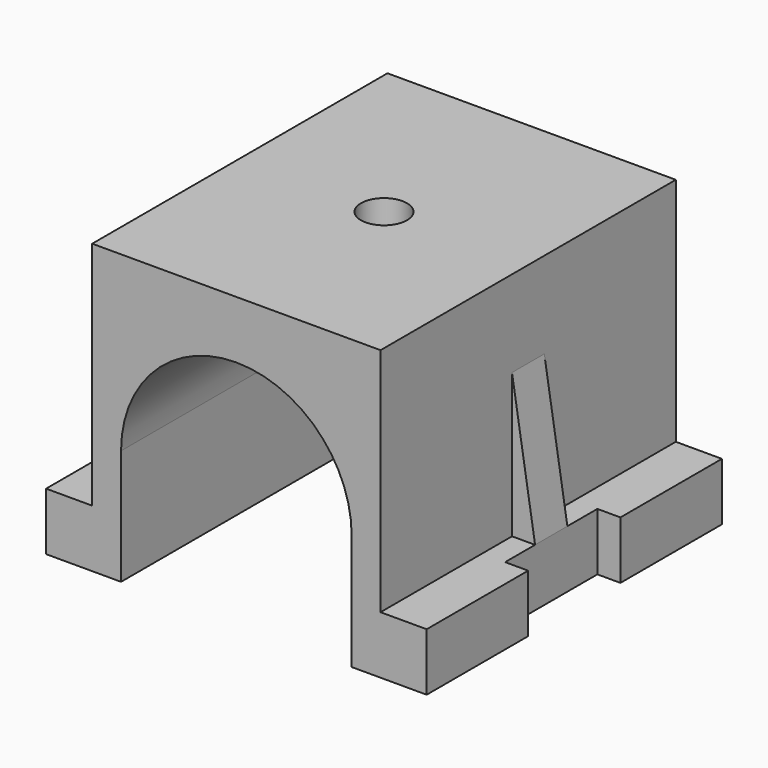
from build123d import *

# Parameters (mm, degrees)
PAD_DEPTH       = 128
SKETCH001_W     = 8
SKETCH001_H     = 40
POCKET_DEPTH    = 20.001
SKETCH002_W     = 50
SKETCH002_H     = 14
PAD001_DEPTH    = 8
SKETCH003_R     = 8
POCKET001_DEPTH = 100.001
POCKET002_DEPTH = 71.001


with BuildPart() as part:
    # Sketch → Pad (new body)
    with BuildSketch(Plane.XZ):
        with BuildLine():
            Line((-50, 100), (-50, 20))
            Line((-50, 20), (-66, 20))
            Line((-66, 20), (-66, 0))
            Line((-66, 0), (-40, 0))
            Line((-40, 0), (-40, 40))
            ThreePointArc((40, 40), (0, 80), (-40, 40))
            Line((40, 0), (40, 40))
            Line((66, 0), (40, 0))
            Line((66, 20), (66, 0))
            Line((50, 20), (66, 20))
            Line((50, 20), (50, 100))
            Line((50, 100), (-50, 100))
        make_face()
    extrude(amount=PAD_DEPTH)

    # Sketch001 (on Face12 of Pad) → Pocket (cut, through all)
    with BuildSketch(Plane(origin=(0, 0, 20), x_dir=(-1, 0, 0), z_dir=(0, 0, 1))):
        with Locations((-62, 64)):
            Rectangle(SKETCH001_W, SKETCH001_H)
        with Locations((62, 64)):
            Rectangle(SKETCH001_W, SKETCH001_H)
    extrude(amount=-POCKET_DEPTH, mode=Mode.SUBTRACT)

    # Sketch002 (on Face1 of Pocket) → Pad001 (join)
    with BuildSketch(Plane(origin=(50, 0, 0), x_dir=(0, 0, 1), z_dir=(1, 0, 0))):
        with Locations((45, 64)):
            Rectangle(SKETCH002_W, SKETCH002_H)
    extrude(amount=PAD001_DEPTH)

    # Sketch003 (on Face3 of Pad001) → Pocket001 (cut, through all)
    with BuildSketch(Plane(origin=(0, 0, 100), x_dir=(-1, 0, 0), z_dir=(0, 0, 1))):
        with Locations((0, 64)):
            Circle(SKETCH003_R)
    extrude(amount=-POCKET001_DEPTH, mode=Mode.SUBTRACT)

    # Sketch004 (on Face6 of Pocket001) → Pocket002 (cut, through all)
    with BuildSketch(Plane.XZ.offset(71)):
        Polygon((58, 20), (58, 70), (50, 70), align=None)
    extrude(amount=-POCKET002_DEPTH, mode=Mode.SUBTRACT)

    # Mirrored: part across YZ


with BuildPart() as part_1:
    add(part.part)
    add(part.part.mirror(Plane.YZ))


solid = part_1.part
